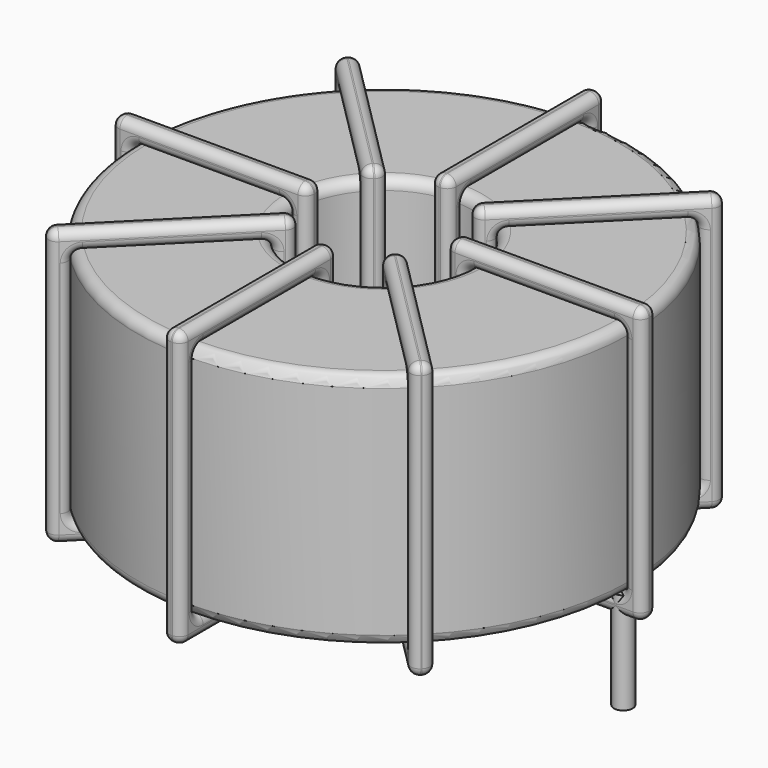
from build123d import *

# Parameters (mm, degrees)
SKETCH001_R       = 0.45
PAD001_DEPTH      = 0.45
PAD001_DEPTH_BACK = 4.4
SKETCH_R          = 11.8
SKETCH_R_2        = 4.233333
PAD_DEPTH         = 11.4
FILLET_R          = 0.5
SKETCH003_W       = 9.366667
SKETCH003_H       = 13.2
SKETCH003_W_2     = 7.566667
SKETCH003_H_2     = 11.4
PAD002_DEPTH      = 0.45
FILLET001_R       = 0.423
SKETCH004_W       = 9.366667
SKETCH004_H       = 13.2
SKETCH004_W_2     = 7.566667
SKETCH004_H_2     = 11.4
PAD003_DEPTH      = 0.45
FILLET002_R       = 0.423
SKETCH005_W       = 9.366667
SKETCH005_H       = 13.2
SKETCH005_W_2     = 7.566667
SKETCH005_H_2     = 11.4
PAD004_DEPTH      = 0.45
FILLET003_R       = 0.423
SKETCH006_W       = 9.366667
SKETCH006_H       = 13.2
SKETCH006_W_2     = 7.566667
SKETCH006_H_2     = 11.4
PAD005_DEPTH      = 0.45
FILLET004_R       = 0.423


with BuildPart() as pad001:
    # Sketch001 → Pad001 (new body, two sides)
    with BuildSketch(Plane.XY.offset(0.95)) as pad001_sk:
        Circle(SKETCH001_R)
        with Locations((22.9, 0)):
            Circle(SKETCH001_R)
    extrude(amount=PAD001_DEPTH)
    extrude(pad001_sk.sketch, amount=-PAD001_DEPTH_BACK)


with BuildPart() as fillet_body:
    # Sketch → Pad (new body)
    with BuildSketch(Plane.XY.offset(1.4)):
        with Locations((11.45, 0)):
            Circle(SKETCH_R)
        with Locations((11.45, 0)):
            Circle(SKETCH_R_2, mode=Mode.SUBTRACT)
    extrude(amount=PAD_DEPTH)

    # Fillet
    fillet_edges = [fillet_body.edges().sort_by_distance(p)[0] for p in [
        (7.216667, 0, 12.8),
        (-0.35, 0, 12.8),
        (-0.35, 0, 1.4),
    ]]
    fillet(fillet_edges, radius=FILLET_R)


with BuildPart() as fillet001:
    # Sketch003 → Pad002 (new body, symmetric)
    with BuildSketch(Plane(origin=(11.45, 0, 0), x_dir=(1, 0, 0), z_dir=(0, -1, 0))):
        with Locations((-8.016666, 7.1)):
            Rectangle(SKETCH003_W, SKETCH003_H)
        with Locations((-8.016666, 7.1)):
            Rectangle(SKETCH003_W_2, SKETCH003_H_2, mode=Mode.SUBTRACT)
        with Locations((8.016666, 7.1)):
            Rectangle(SKETCH003_W, SKETCH003_H)
        with Locations((8.016666, 7.1)):
            Rectangle(SKETCH003_W_2, SKETCH003_H_2, mode=Mode.SUBTRACT)
    extrude(amount=PAD002_DEPTH, both=True)

    # Fillet001
    fillet001_edges = [fillet001.edges().sort_by_distance(p)[0] for p in [
        (7.216667, 0, 12.8),
        (7.216667, 0, 1.4),
        (7.216667, 0.45, 7.1),
        (7.216667, -0.45, 7.1),
        (-1.25, 0, 13.7),
        (8.116667, 0, 13.7),
        (3.433333, 0.45, 13.7),
        (3.433333, -0.45, 13.7),
        (8.116667, 0, 0.5),
        (8.116667, 0.45, 7.1),
        (8.116667, -0.45, 7.1),
        (15.683333, 0, 12.8),
        (23.25, 0, 12.8),
        (19.466667, 0.45, 12.8),
        (19.466667, -0.45, 12.8),
        (23.25, 0, 1.4),
        (23.25, 0.45, 7.1),
        (23.25, -0.45, 7.1),
        (14.783333, 0, 13.7),
        (24.15, 0, 13.7),
        (19.466667, 0.45, 13.7),
        (19.466667, -0.45, 13.7),
        (24.15, 0, 0.5),
        (24.15, 0.45, 7.1),
        (24.15, -0.45, 7.1),
        (-0.35, 0, 12.8),
        (3.433333, 0.45, 12.8),
        (3.433333, -0.45, 12.8),
        (15.683333, 0, 1.4),
        (15.683333, 0.45, 7.1),
        (15.683333, -0.45, 7.1),
        (19.466667, 0.45, 1.4),
        (19.466667, -0.45, 1.4),
        (14.783333, 0, 0.5),
        (19.466667, 0.45, 0.5),
        (19.466667, -0.45, 0.5),
        (14.783333, 0.45, 7.1),
        (14.783333, -0.45, 7.1),
        (-1.25, 0, 0.5),
        (3.433333, 0.45, 0.5),
        (3.433333, -0.45, 0.5),
        (-1.25, 0.45, 7.1),
        (-1.25, -0.45, 7.1),
        (-0.35, 0, 1.4),
        (-0.35, 0.45, 7.1),
        (-0.35, -0.45, 7.1),
        (3.433333, 0.45, 1.4),
        (3.433333, -0.45, 1.4),
    ]]
    fillet(fillet001_edges, radius=FILLET001_R)


with BuildPart() as fillet002:
    # Sketch004 → Pad003 (new body, symmetric)
    with BuildSketch(Plane(origin=(11.45, 0, 0), x_dir=(0.707107, 0.707107, 0), z_dir=(0.707107, -0.707107, 0))):
        with Locations((-8.016666, 7.1)):
            Rectangle(SKETCH004_W, SKETCH004_H)
        with Locations((-8.016666, 7.1)):
            Rectangle(SKETCH004_W_2, SKETCH004_H_2, mode=Mode.SUBTRACT)
        with Locations((8.016666, 7.1)):
            Rectangle(SKETCH004_W, SKETCH004_H)
        with Locations((8.016666, 7.1)):
            Rectangle(SKETCH004_W_2, SKETCH004_H_2, mode=Mode.SUBTRACT)
    extrude(amount=PAD003_DEPTH, both=True)

    # Fillet002
    fillet002_edges = [fillet002.edges().sort_by_distance(p)[0] for p in [
        (8.456581, -2.993419, 12.8),
        (8.456581, -2.993419, 1.4),
        (8.138383, -2.675221, 7.1),
        (8.774779, -3.311617, 7.1),
        (2.469744, -8.980256, 13.7),
        (2.469744, -8.980256, 0.5),
        (2.151546, -8.662058, 7.1),
        (2.787942, -9.298454, 7.1),
        (9.092977, -2.357023, 13.7),
        (5.463163, -5.350441, 0.5),
        (6.099559, -5.986837, 0.5),
        (14.443419, 2.993419, 12.8),
        (19.79386, 8.34386, 12.8),
        (16.800441, 5.986837, 12.8),
        (17.436837, 5.350441, 12.8),
        (19.79386, 8.34386, 1.4),
        (19.475662, 8.662058, 7.1),
        (20.112058, 8.025662, 7.1),
        (13.807023, 2.357023, 13.7),
        (20.430256, 8.980256, 13.7),
        (16.800441, 5.986837, 13.7),
        (17.436837, 5.350441, 13.7),
        (20.430256, 8.980256, 0.5),
        (20.112058, 9.298454, 7.1),
        (20.748454, 8.662058, 7.1),
        (3.10614, -8.34386, 12.8),
        (5.463163, -5.350441, 12.8),
        (6.099559, -5.986837, 12.8),
        (14.443419, 2.993419, 1.4),
        (14.125221, 3.311617, 7.1),
        (14.761617, 2.675221, 7.1),
        (16.800441, 5.986837, 1.4),
        (17.436837, 5.350441, 1.4),
        (13.807023, 2.357023, 0.5),
        (16.800441, 5.986837, 0.5),
        (17.436837, 5.350441, 0.5),
        (13.488825, 2.675221, 7.1),
        (14.125221, 2.038825, 7.1),
        (9.092977, -2.357023, 0.5),
        (8.774779, -2.038825, 7.1),
        (9.411175, -2.675221, 7.1),
        (5.463163, -5.350441, 13.7),
        (6.099559, -5.986837, 13.7),
        (3.10614, -8.34386, 1.4),
        (2.787942, -8.025662, 7.1),
        (3.424338, -8.662058, 7.1),
        (5.463163, -5.350441, 1.4),
        (6.099559, -5.986837, 1.4),
    ]]
    fillet(fillet002_edges, radius=FILLET002_R)


with BuildPart() as fillet003:
    # Sketch005 → Pad004 (new body, symmetric)
    with BuildSketch(Plane(origin=(11.45, 0, 0), x_dir=(0.707107, -0.707107, 0), z_dir=(-0.707107, -0.707107, 0))):
        with Locations((-8.016666, 7.1)):
            Rectangle(SKETCH005_W, SKETCH005_H)
        with Locations((-8.016666, 7.1)):
            Rectangle(SKETCH005_W_2, SKETCH005_H_2, mode=Mode.SUBTRACT)
        with Locations((8.016666, 7.1)):
            Rectangle(SKETCH005_W, SKETCH005_H)
        with Locations((8.016666, 7.1)):
            Rectangle(SKETCH005_W_2, SKETCH005_H_2, mode=Mode.SUBTRACT)
    extrude(amount=PAD004_DEPTH, both=True)

    # Fillet003
    fillet003_edges = [fillet003.edges().sort_by_distance(p)[0] for p in [
        (8.456581, 2.993419, 12.8),
        (8.456581, 2.993419, 1.4),
        (8.774779, 3.311617, 7.1),
        (8.138383, 2.675221, 7.1),
        (2.469744, 8.980256, 13.7),
        (9.092977, 2.357023, 13.7),
        (6.099559, 5.986837, 13.7),
        (5.463163, 5.350441, 13.7),
        (9.092977, 2.357023, 0.5),
        (9.411175, 2.675221, 7.1),
        (8.774779, 2.038825, 7.1),
        (14.443419, -2.993419, 12.8),
        (19.79386, -8.34386, 12.8),
        (17.436837, -5.350441, 12.8),
        (16.800441, -5.986837, 12.8),
        (19.79386, -8.34386, 1.4),
        (20.112058, -8.025662, 7.1),
        (19.475662, -8.662058, 7.1),
        (13.807023, -2.357023, 13.7),
        (20.430256, -8.980256, 13.7),
        (17.436837, -5.350441, 13.7),
        (16.800441, -5.986837, 13.7),
        (20.430256, -8.980256, 0.5),
        (20.748454, -8.662058, 7.1),
        (20.112058, -9.298454, 7.1),
        (3.10614, 8.34386, 12.8),
        (6.099559, 5.986837, 12.8),
        (5.463163, 5.350441, 12.8),
        (14.443419, -2.993419, 1.4),
        (14.761617, -2.675221, 7.1),
        (14.125221, -3.311617, 7.1),
        (17.436837, -5.350441, 1.4),
        (16.800441, -5.986837, 1.4),
        (13.807023, -2.357023, 0.5),
        (17.436837, -5.350441, 0.5),
        (16.800441, -5.986837, 0.5),
        (14.125221, -2.038825, 7.1),
        (13.488825, -2.675221, 7.1),
        (2.469744, 8.980256, 0.5),
        (6.099559, 5.986837, 0.5),
        (5.463163, 5.350441, 0.5),
        (2.787942, 9.298454, 7.1),
        (2.151546, 8.662058, 7.1),
        (3.10614, 8.34386, 1.4),
        (3.424338, 8.662058, 7.1),
        (2.787942, 8.025662, 7.1),
        (6.099559, 5.986837, 1.4),
        (5.463163, 5.350441, 1.4),
    ]]
    fillet(fillet003_edges, radius=FILLET003_R)


with BuildPart() as fillet004:
    # Sketch006 → Pad005 (new body, symmetric)
    with BuildSketch(Plane.YZ.offset(11.45)):
        with Locations((-8.016666, 7.1)):
            Rectangle(SKETCH006_W, SKETCH006_H)
        with Locations((-8.016666, 7.1)):
            Rectangle(SKETCH006_W_2, SKETCH006_H_2, mode=Mode.SUBTRACT)
        with Locations((8.016666, 7.1)):
            Rectangle(SKETCH006_W, SKETCH006_H)
        with Locations((8.016666, 7.1)):
            Rectangle(SKETCH006_W_2, SKETCH006_H_2, mode=Mode.SUBTRACT)
    extrude(amount=PAD005_DEPTH, both=True)

    # Fillet004
    fillet004_edges = [fillet004.edges().sort_by_distance(p)[0] for p in [
        (11.45, -4.233333, 12.8),
        (11.45, -4.233333, 1.4),
        (11, -4.233333, 7.1),
        (11.9, -4.233333, 7.1),
        (11.45, -12.7, 13.7),
        (11.45, -3.333333, 13.7),
        (11, -8.016667, 13.7),
        (11.9, -8.016667, 13.7),
        (11.45, -3.333333, 0.5),
        (11, -3.333333, 7.1),
        (11.9, -3.333333, 7.1),
        (11.45, 4.233333, 12.8),
        (11.45, 11.8, 12.8),
        (11, 8.016667, 12.8),
        (11.9, 8.016667, 12.8),
        (11.45, 11.8, 1.4),
        (11, 11.8, 7.1),
        (11.9, 11.8, 7.1),
        (11.45, 3.333333, 13.7),
        (11.45, 12.7, 13.7),
        (11, 8.016667, 13.7),
        (11.9, 8.016667, 13.7),
        (11.45, 12.7, 0.5),
        (11, 12.7, 7.1),
        (11.9, 12.7, 7.1),
        (11.45, -11.8, 12.8),
        (11, -8.016667, 12.8),
        (11.9, -8.016667, 12.8),
        (11.45, 4.233333, 1.4),
        (11, 4.233333, 7.1),
        (11.9, 4.233333, 7.1),
        (11, 8.016667, 1.4),
        (11.9, 8.016667, 1.4),
        (11.45, 3.333333, 0.5),
        (11, 8.016667, 0.5),
        (11.9, 8.016667, 0.5),
        (11, 3.333333, 7.1),
        (11.9, 3.333333, 7.1),
        (11.45, -12.7, 0.5),
        (11, -8.016667, 0.5),
        (11.9, -8.016667, 0.5),
        (11, -12.7, 7.1),
        (11.9, -12.7, 7.1),
        (11.45, -11.8, 1.4),
        (11, -11.8, 7.1),
        (11.9, -11.8, 7.1),
        (11, -8.016667, 1.4),
        (11.9, -8.016667, 1.4),
    ]]
    fillet(fillet004_edges, radius=FILLET004_R)


solid = Compound([pad001.part, fillet_body.part, fillet001.part, fillet002.part, fillet003.part, fillet004.part])
